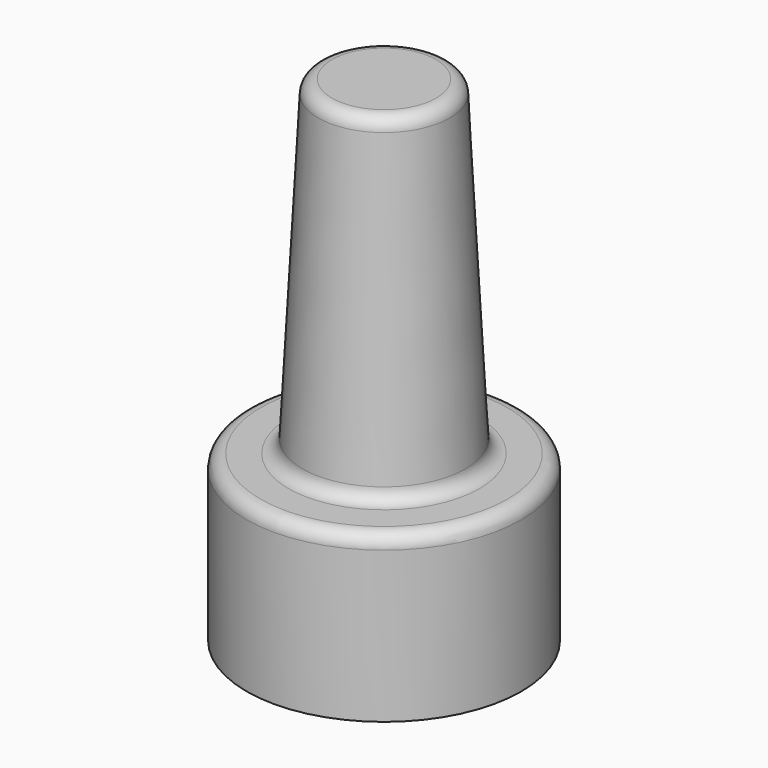
from build123d import *

# Parameters (mm, degrees)
F3_R     = 31.75
F0_DEPTH = 38.1
F1_R     = 19.05
F4_DEPTH = 76.2
F4_TAPER = 3
F2_R     = 3.175
F5_T     = -1.5875


with BuildPart() as f0:
    # F3 (on Top) → F0 (new body)
    with BuildSketch(Plane.XY):
        Circle(F3_R)
    extrude(amount=F0_DEPTH)

    # F1 (on face) → F4 (join)
    with BuildSketch(Plane.XY.offset(38.1)):
        Circle(F1_R)
    extrude(amount=F4_DEPTH, taper=F4_TAPER)

    # F2
    f2_edges = [f0.edges().sort_by_distance(p)[0] for p in [
        (-19.05, 0, 38.1),
        (17.053264, 0, 76.2),
        (-15.056527, 0, 114.3),
        (-31.75, 0, 38.1),
    ]]
    fillet(f2_edges, radius=F2_R)

    # F5
    f5_openings = [f0.faces().sort_by_distance(p)[0] for p in [
        (0, 0, 0),
    ]]
    offset(amount=F5_T, openings=f5_openings)


solid = f0.part
